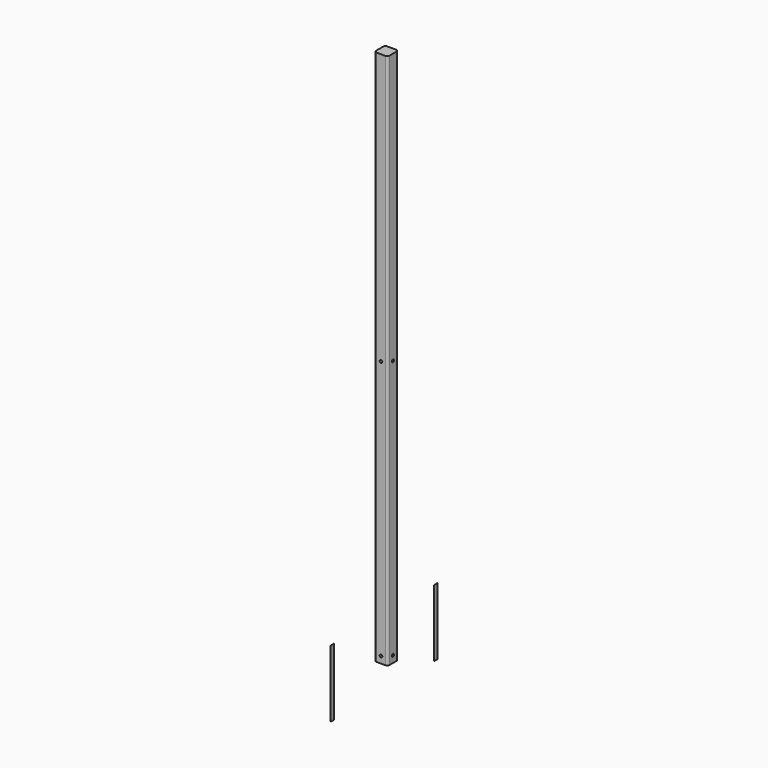
from build123d import *

# Parameters (mm, degrees)
F1_DEPTH  = 1524
F2_W      = 12.7
F2_H      = 190.5
F4_DEPTH  = 0.254
F3_W      = 12.7
F3_H      = 190.5
F5_DEPTH  = 0.254
F7_DEPTH  = 38.1
F9_DEPTH  = 38.1
F10_DEPTH = 38.1
F12_DEPTH = 38.1


with BuildPart() as f1:
    # F0 (on Top) → F1 (new body)
    with BuildSketch(Plane.XY):
        with BuildLine():
            ThreePointArc((19.05, 12.7), (17.1901280605, 17.1901280605), (12.7, 19.05))
            Line((12.7, 19.05), (-12.7, 19.05))
            ThreePointArc((-12.7, 19.05), (-17.1901280605, 17.1901280605), (-19.05, 12.7))
            Line((-19.05, 12.7), (-19.05, -12.7))
            ThreePointArc((-19.05, -12.7), (-17.1901280605, -17.1901280605), (-12.7, -19.05))
            Line((-12.7, -19.05), (12.7, -19.05))
            ThreePointArc((12.7, -19.05), (17.1901280605, -17.1901280605), (19.05, -12.7))
            Line((19.05, -12.7), (19.05, 12.7))
        make_face()
    extrude(amount=F1_DEPTH)

    # F6 (on face) → F7 (cut)
    with BuildSketch(Plane.YZ.offset(19.05)):
        with BuildLine():
            ThreePointArc((0, 751.84), (2.6940768363, 752.9559231637), (3.81, 755.65))
            ThreePointArc((3.81, 755.65), (-2.6940768363, 758.3440768363), (0, 751.84))
        make_face()
    extrude(amount=-F7_DEPTH, mode=Mode.SUBTRACT)

    # F8 (on face) → F9 (cut)
    with BuildSketch(Plane.XZ.offset(19.05)):
        with BuildLine():
            ThreePointArc((0, 22.86), (-3.81, 19.05), (0, 15.24))
            Line((0, 15.24), (0, 19.05))
            Line((0, 19.05), (0, 22.86))
        make_face()
        with BuildLine():
            ThreePointArc((3.81, 755.65), (-2.6940768363, 758.3440768363), (0, 751.84))
            ThreePointArc((0, 751.84), (2.6940768363, 752.9559231637), (3.81, 755.65))
        make_face()
        with BuildLine():
            Line((0, 19.05), (0, 15.24))
            ThreePointArc((0, 15.24), (2.6940768363, 16.3559231637), (3.81, 19.05))
            ThreePointArc((3.81, 19.05), (2.6940768363, 21.7440768363), (0, 22.86))
            Line((0, 22.86), (0, 19.05))
        make_face()
    extrude(amount=-F9_DEPTH, mode=Mode.SUBTRACT)

    # F8 (on face) → F10 (cut)
    with BuildSketch(Plane.XZ.offset(19.05)):
        with BuildLine():
            ThreePointArc((0, 22.86), (-3.81, 19.05), (0, 15.24))
            Line((0, 15.24), (0, 19.05))
            Line((0, 19.05), (0, 22.86))
        make_face()
        with BuildLine():
            ThreePointArc((3.81, 755.65), (-2.6940768363, 758.3440768363), (0, 751.84))
            ThreePointArc((0, 751.84), (2.6940768363, 752.9559231637), (3.81, 755.65))
        make_face()
        with BuildLine():
            Line((0, 19.05), (0, 15.24))
            ThreePointArc((0, 15.24), (2.6940768363, 16.3559231637), (3.81, 19.05))
            ThreePointArc((3.81, 19.05), (2.6940768363, 21.7440768363), (0, 22.86))
            Line((0, 22.86), (0, 19.05))
        make_face()
    extrude(amount=-F10_DEPTH, mode=Mode.SUBTRACT)

    # F11 (on face) → F12 (cut)
    with BuildSketch(Plane.YZ.offset(19.05)):
        with BuildLine():
            ThreePointArc((0, 15.24), (2.6940768363, 16.3559231637), (3.81, 19.05))
            ThreePointArc((3.81, 19.05), (-2.6940768363, 21.7440768363), (0, 15.24))
        make_face()
    extrude(amount=-F12_DEPTH, mode=Mode.SUBTRACT)


with BuildPart() as f4:
    # F2 (on Right) → F4 (new body)
    with BuildSketch(Plane.YZ):
        with Locations((-192.550282383, 22.60106498)):
            Rectangle(F2_W, F2_H)
    extrude(amount=F4_DEPTH)


with BuildPart() as f5:
    # F3 (on Right) → F5 (new body)
    with BuildSketch(Plane.YZ):
        with Locations((175.8641792297, 24.7778154314)):
            Rectangle(F3_W, F3_H)
    extrude(amount=F5_DEPTH)


solid = Compound([f1.part, f4.part, f5.part])
